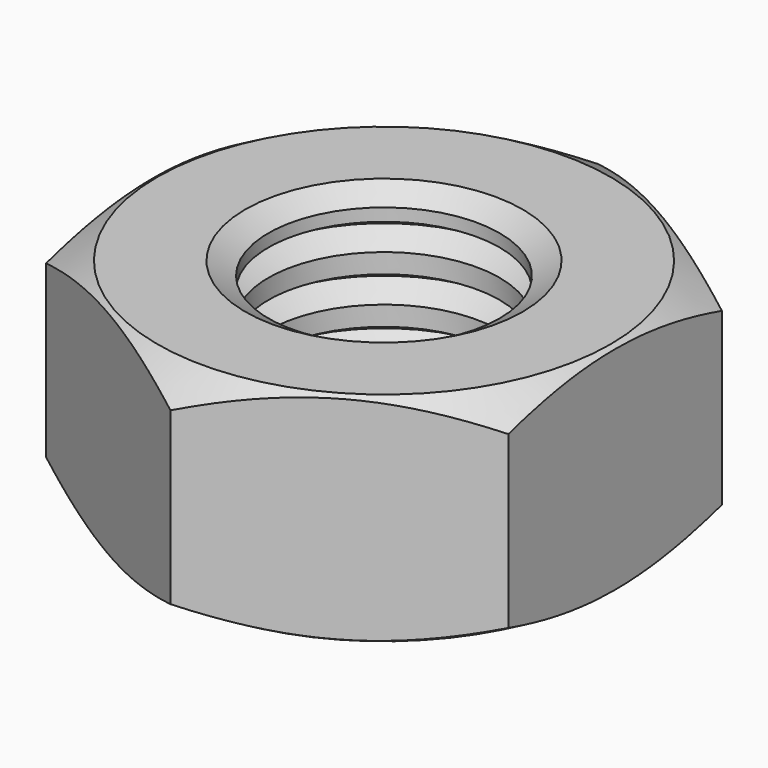
from build123d import *

# Parameters (mm, degrees)
EXTRUDE_DEPTH = 4.7


with BuildPart() as revolve_body:
    # Sketch001 → Revolve (revolve)
    with BuildSketch(Plane.XZ):
        Polygon((3, 0), (2.5, 0.288675), (2.5, 0.561325), (3, 0.85), (2.5, 1.138675), (2.5, 1.561325), (3, 1.85), (2.5, 2.138675), (2.5, 2.561325), (3, 2.85), (2.5, 3.138675), (2.5, 3.561325), (3, 3.85), (2.5, 4.138675), (2.5, 4.411325), (3, 4.7), (4.9, 4.7), (6, 4.064915), (6, 0.635085), (4.9, 0), align=None)
    revolve(axis=Axis((0, 0, 0), (0, 0, 1)))


with BuildPart() as common:
    # Sketch → Extrude (new body)
    with BuildSketch(Plane.XY):
        Polygon((0, 5.773503), (-5, 2.886751), (-5, -2.886751), (0, -5.773503), (5, -2.886751), (5, 2.886751), align=None)
    extrude(amount=EXTRUDE_DEPTH)

    # Common: intersect Revolve body
    add(revolve_body.part, mode=Mode.INTERSECT)


solid = common.part
